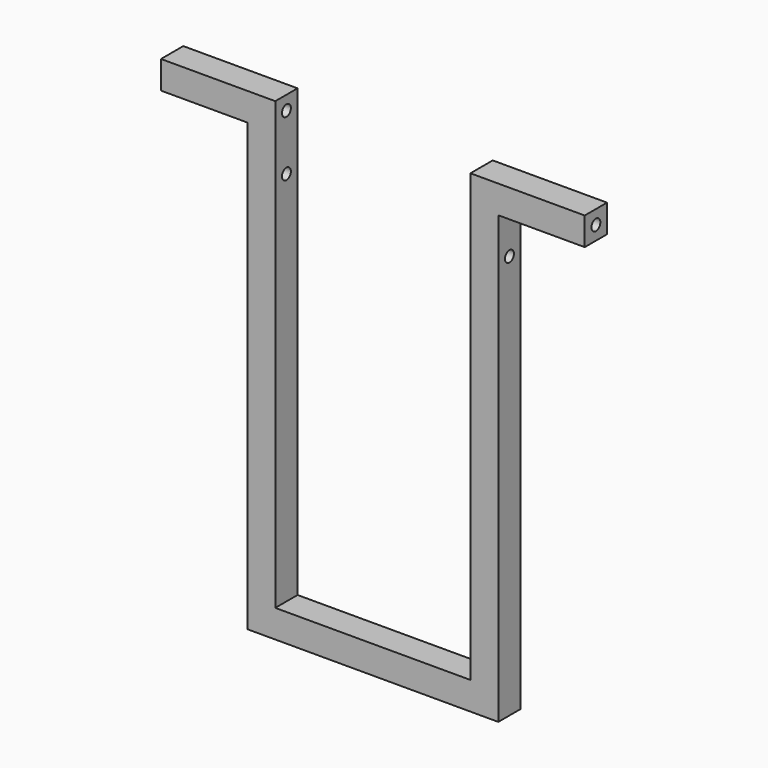
from build123d import *

# Parameters (mm, degrees)
F1_DEPTH = 10
F2_R     = 2
F3_DEPTH = 152.001
F4_R     = 2
F5_DEPTH = 121.001


with BuildPart() as f1:
    # F0 (on Front) → F1 (new body)
    with BuildSketch(Plane.XZ):
        Polygon((-45, 145), (-45, -15), (45, -15), (45, 145), (76, 145), (76, 155), (35, 155), (35, -5), (0, -5), (-35, -5), (-35, 155), (-76, 155), (-76, 145), align=None)
    extrude(amount=F1_DEPTH)

    # F2 (on face) → F3 (cut, through all)
    with BuildSketch(Plane.YZ.offset(76)):
        with Locations((-5, 150)):
            Circle(F2_R)
    extrude(amount=-F3_DEPTH, mode=Mode.SUBTRACT)

    # F4 (on face) → F5 (cut, through all)
    with BuildSketch(Plane.YZ.offset(45)):
        with Locations((-5, 130)):
            Circle(F4_R)
    extrude(amount=-F5_DEPTH, mode=Mode.SUBTRACT)


solid = f1.part
